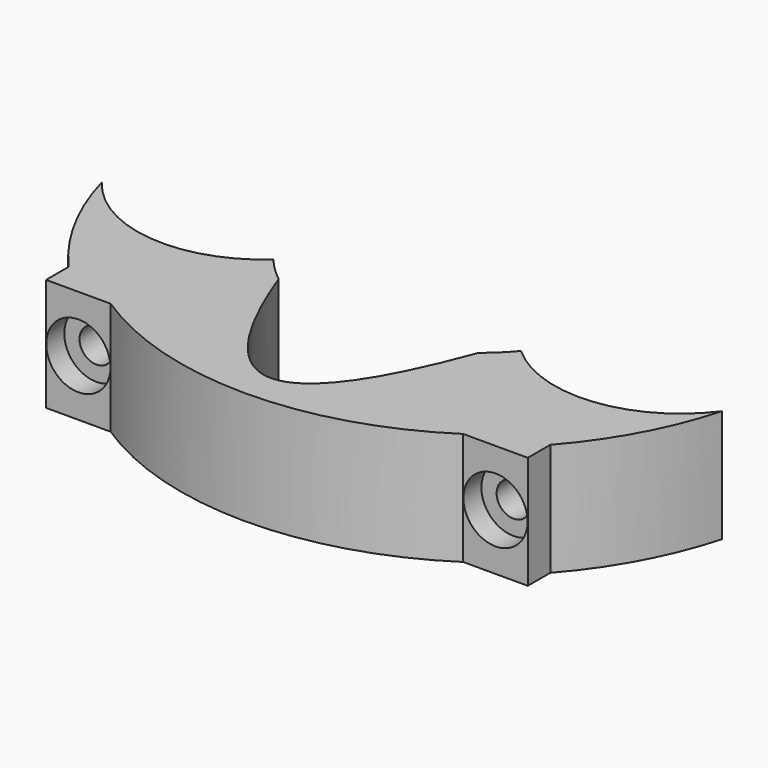
from build123d import *

# Parameters (mm, degrees)
PAD017_DEPTH         = 10
SKETCH027_R          = 1.5
POCKET015_DEPTH      = 0.001
POCKET015_DEPTH_BACK = 26.046246
SKETCH028_R          = 2.85
POCKET016_DEPTH      = 2


with BuildPart() as part:
    # Sketch026 → Pad017 (new body)
    with BuildSketch(Plane.XY):
        with BuildLine():
            ThreePointArc((-21.365, -18.875435), (-25.083946, -13.547727), (-27.5, -7.516333))
            ThreePointArc((-27.5, -7.516333), (-19.604248, -11.995431), (-10.983083, -9.152768))
            ThreePointArc((-10.983083, -9.152768), (-9.977451, -10.239713), (-8.864785, -11.216811))
            add(Edge.make_bspline(
                [(8.864785, -11.216811), (0, -35.083189), (-8.864785, -11.216811)],
                knots=[-8.864785, -8.864785, -8.864785, 8.864785, 8.864785, 8.864785], degree=2))
            ThreePointArc((8.864785, -11.216811), (9.977451, -10.239713), (10.983083, -9.152768))
            ThreePointArc((10.983083, -9.152768), (19.604248, -11.995431), (27.5, -7.516333))
            ThreePointArc((27.5, -7.516333), (25.083946, -13.547727), (21.365, -18.875435))
            Line((21.365, -18.875435), (21.365, -21.375435))
            Line((21.365, -21.375435), (15.635, -21.375435))
            ThreePointArc((15.635, -21.375435), (0, -26.045246), (-15.635, -21.375435))
            Line((-15.635, -21.375435), (-21.365, -21.375435))
            Line((-21.365, -21.375435), (-21.365, -18.875435))
        make_face()
    extrude(amount=PAD017_DEPTH)

    # Sketch027 → Pocket015 (cut, two sides)
    with BuildSketch(Plane.XZ) as pocket015_sk:
        with Locations((-18.5, 5)):
            Circle(SKETCH027_R)
        with Locations((18.5, 5)):
            Circle(SKETCH027_R)
    extrude(amount=-POCKET015_DEPTH, mode=Mode.SUBTRACT)
    extrude(pocket015_sk.sketch, amount=POCKET015_DEPTH_BACK, mode=Mode.SUBTRACT)

    # Sketch028 (on DatumPlane) → Pocket016 (cut)
    with BuildSketch(Plane.XZ.offset(21.375435)):
        with Locations((-18.5, 5)):
            Circle(SKETCH028_R)
        with Locations((18.5, 5)):
            Circle(SKETCH028_R)
    extrude(amount=-POCKET016_DEPTH, mode=Mode.SUBTRACT)


with BuildPart() as part_1:
    # Body008 placement: moved
    add(part.part.moved(Location((0, 0, -50))))


solid = part_1.part
